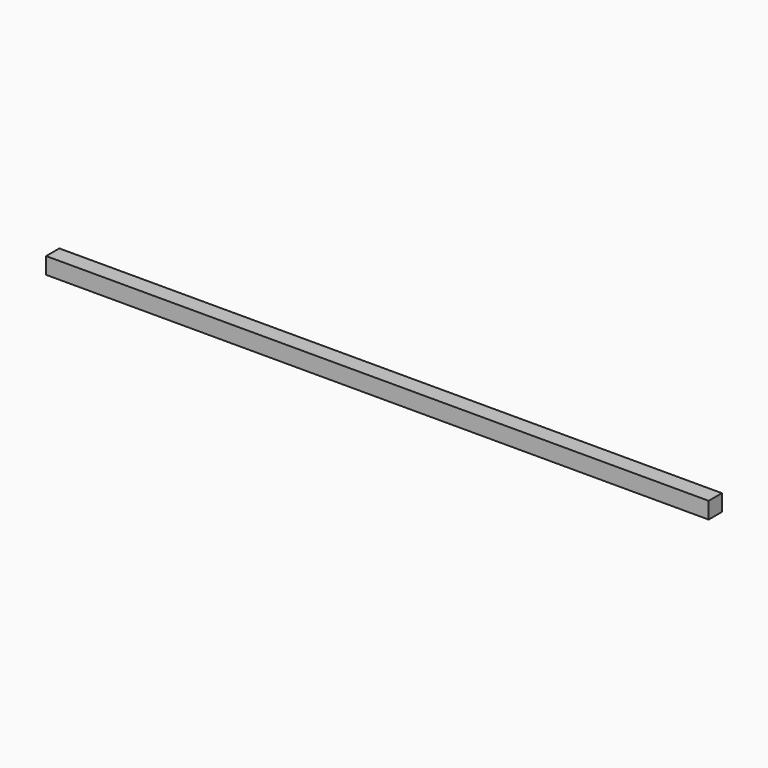
from build123d import *

# Parameters (mm, degrees)
F0_W     = 254
F0_H     = 6.35
F0_R     = 1.35255
F1_DEPTH = 4.7625
F2_W     = 254
F2_H     = 6.35
F3_DEPTH = 1.5875


with BuildPart() as f1:
    # F0 (on Top) → F1 (new body)
    with BuildSketch(Plane.XY):
        Rectangle(F0_W, F0_H)
        with Locations((-123.825, 0)):
            Circle(F0_R, mode=Mode.SUBTRACT)
        Circle(F0_R, mode=Mode.SUBTRACT)
        with Locations((123.825, 0)):
            Circle(F0_R, mode=Mode.SUBTRACT)
    extrude(amount=F1_DEPTH)

    # F2 (on face) → F3 (join)
    with BuildSketch(Plane.XY.offset(4.7625)):
        Rectangle(F2_W, F2_H)
    extrude(amount=F3_DEPTH)


solid = f1.part
